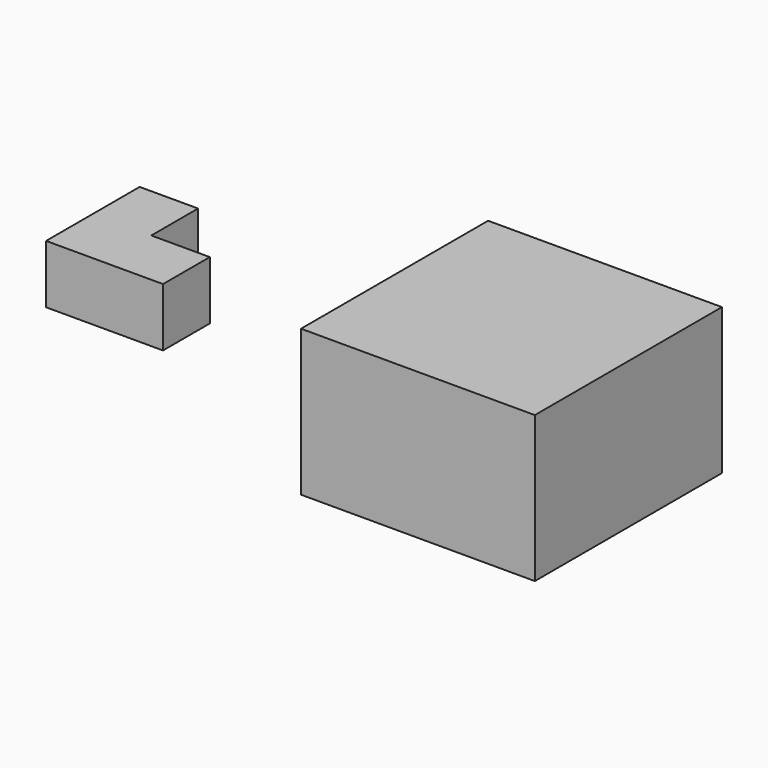
from build123d import *

# Parameters (mm, degrees)
F1_DEPTH = 10
F2_W     = 40
F2_H     = 40
F3_DEPTH = 25


with BuildPart() as f1:
    # F0 (on Top) → F1 (new body)
    with BuildSketch(Plane.XY):
        Polygon((-26.006334, 7.457897), (-36.006334, 7.457897), (-36.006334, -12.542103), (-16.006334, -12.542103), (-16.006334, -2.542103), (-26.006334, -2.542103), align=None)
    extrude(amount=F1_DEPTH)


with BuildPart() as f3:
    # F2 (on Top) → F3 (new body)
    with BuildSketch(Plane.XY):
        with Locations((44.448672, -13.60689)):
            Rectangle(F2_W, F2_H)
    extrude(amount=F3_DEPTH)


solid = Compound([f1.part, f3.part])
